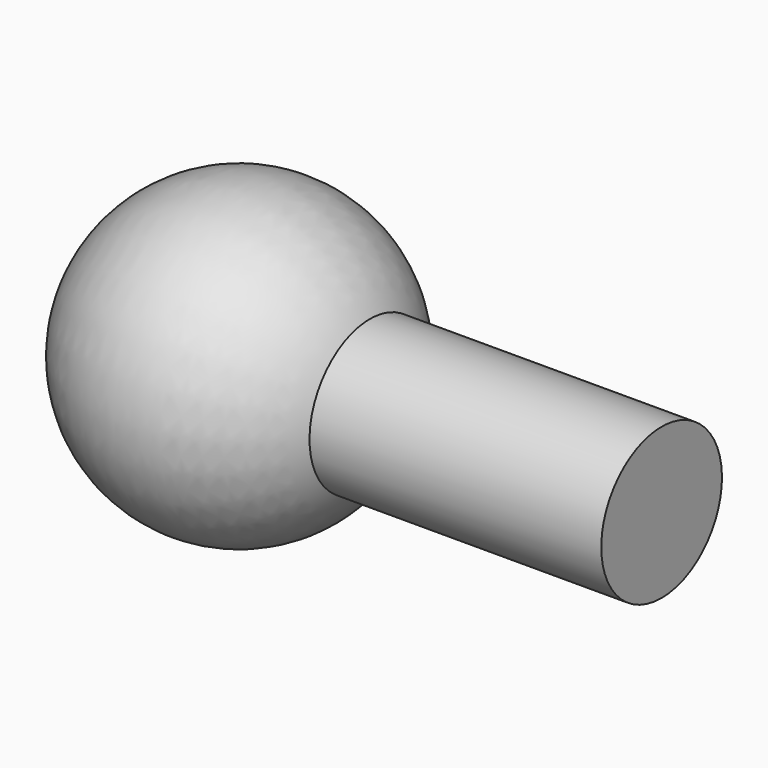
from build123d import *


with BuildPart() as f1:
    # F0 (on Front) → F1 (revolve)
    with BuildSketch(Plane.XZ):
        with BuildLine():
            Line((17.78, 0), (-6.35, 0))
            ThreePointArc((-6.35, 0), (-1.643501, -6.133629), (5.499261, -3.175))
            Line((5.499261, -3.175), (17.78, -3.175))
            Line((17.78, -3.175), (17.78, 0))
        make_face()
    revolve(axis=Axis((5.715, 0, 0), (-1, 0, 0)))


solid = f1.part
